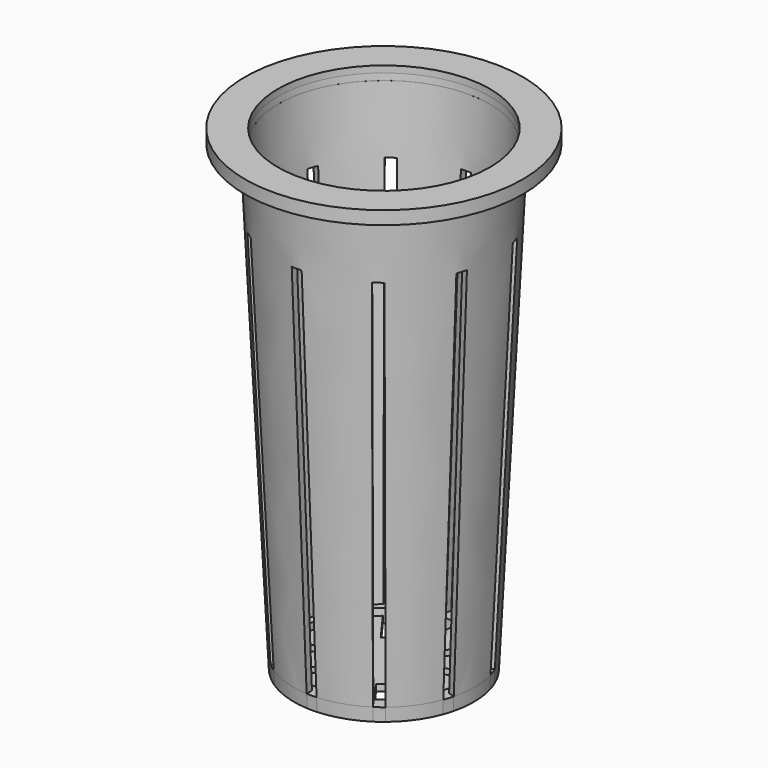
from build123d import *

# Parameters (mm, degrees)
F2_T     = -1.27
F3_DEPTH = 1.27
F5_R     = 20.32
F6_DEPTH = 25.4
F7_W     = 1.905
F7_H     = 19.812
F8_DEPTH = 76.2


with BuildPart() as f1:
    # F0 (on Front) → F1 (revolve)
    with BuildSketch(Plane.XZ):
        Polygon((0, 2.54), (0, 0), (14.732, 0), (17.272, 0), (17.3953714286, 2.54), align=None)
        Polygon((0, 88.9), (0, 2.54), (17.3953714286, 2.54), (21.59, 88.9), align=None)
        Polygon((0, 91.44), (0, 88.9), (21.59, 88.9), (26.67, 88.9), (26.67, 91.44), align=None)
    revolve(axis=Axis((0, 0, 44.45), (0, 0, 1)))

    # F2
    f2_openings = [f1.faces().sort_by_distance(p)[0] for p in [
        (0, 0, 91.44),
    ]]
    offset(amount=F2_T, openings=f2_openings, kind=Kind.INTERSECTION)

    # F3 (add): a face of the model
    f3_faces = [f1.faces().sort_by_distance(p)[0] for p in [
        (-24.6815795103, 0, 90.17),
    ]]
    extrude(f3_faces, amount=F3_DEPTH)

    # F5 (on offset) → F6 (cut)
    with BuildSketch(Plane.XY.offset(88.9)):
        Circle(F5_R)
    extrude(amount=F6_DEPTH, mode=Mode.SUBTRACT)

    # F7 (on Top) → F8 (cut)
    with BuildSketch(Plane.XY):
        Polygon((0.9525, -27.178), (0.9525, -7.366), (0, -7.366), (-0.9525, -7.366), (-0.9525, -27.178), align=None)
        Polygon((5.2068558942, -5.3647039539), (3.6656785199, -6.4844348595), (15.3108799383, -22.5126795521), (16.8520573126, -21.3929486464), align=None)
        Polygon((7.4723698113, -1.2449737892), (6.883692437, -3.0567364527), (25.7260241378, -9.1789811453), (26.3147015121, -7.3672184818), align=None)
        Polygon((6.883692437, 3.4195935956), (7.4723698113, 1.6078309321), (26.3147015121, 7.7300756246), (25.7260241378, 9.5418382882), align=None)
        Polygon((3.6656785199, 6.8472920024), (5.2068558942, 5.7275610967), (16.8520573126, 21.7558057893), (15.3108799383, 22.8755366949), align=None)
        with Locations((0, 17.6348571429)):
            Rectangle(F7_W, F7_H)
        Polygon((-5.2068558942, 5.7275610967), (-3.6656785199, 6.8472920024), (-15.3108799383, 22.8755366949), (-16.8520573126, 21.7558057893), align=None)
        Polygon((-7.4723698113, 1.6078309321), (-6.883692437, 3.4195935956), (-25.7260241378, 9.5418382882), (-26.3147015121, 7.7300756246), align=None)
        Polygon((-6.883692437, -3.0567364527), (-7.4723698113, -1.2449737892), (-26.3147015121, -7.3672184818), (-25.7260241378, -9.1789811453), align=None)
        Polygon((-3.6656785199, -6.4844348595), (-5.2068558942, -5.3647039539), (-16.8520573126, -21.3929486464), (-15.3108799383, -22.5126795521), align=None)
    extrude(amount=F8_DEPTH, mode=Mode.SUBTRACT)

    # F9 (on Front) → F10 (revolve)
    with BuildSketch(Plane.XZ):
        Polygon((14.8553677996, 2.54), (14.732, 0), (17.272, 0), (17.3953678, 2.54), align=None)
    revolve(axis=Axis((0, 0, 1.27), (0, 0, 1)))


solid = f1.part
